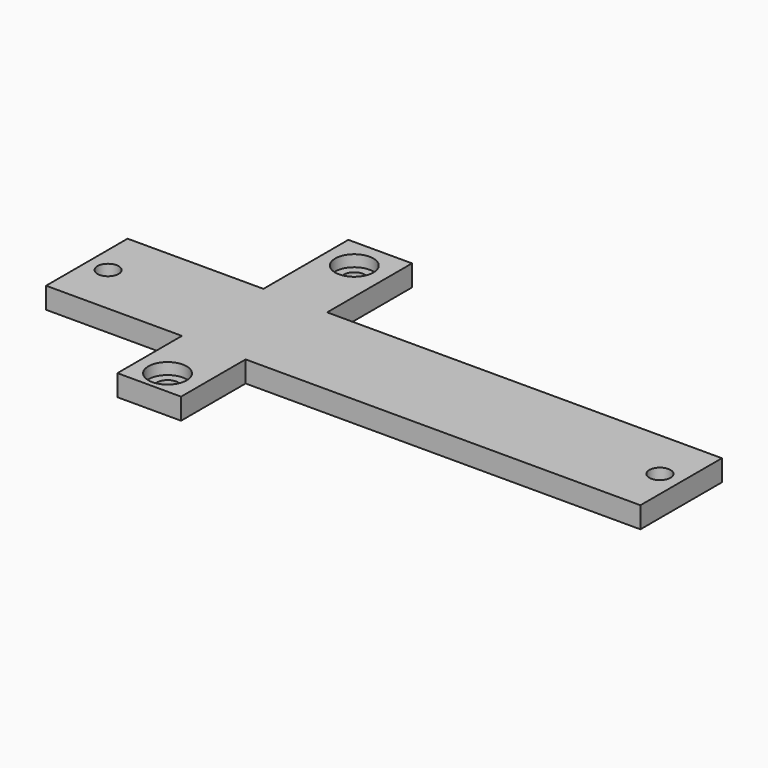
from build123d import *

# Parameters (mm, degrees)
CYLINDER063_R          = 4.5
CYLINDER063_DEPTH      = 10
CYLINDER064_R          = 4.5
CYLINDER064_DEPTH      = 10
CYLINDER058_R          = 2.5
CYLINDER058_DEPTH      = 10
CYLINDER059_R          = 2.5
CYLINDER059_DEPTH      = 10
CYLINDER060_R          = 2.5
CYLINDER060_DEPTH      = 10
CYLINDER061_R          = 2.5
CYLINDER061_DEPTH      = 10
CYLINDER057_R          = 2.5
CYLINDER057_DEPTH      = 10
CYLINDER062_R          = 2.5
CYLINDER062_DEPTH      = 10
BOX013_W               = 15
BOX013_H               = 5
BOX013_DEPTH           = 68
BOX012_W               = 140
BOX012_H               = 5
BOX012_DEPTH           = 24
CUT006_PLACEMENT_ANGLE = 270


with BuildPart() as cylinder063:
    # Cylinder063 → Cylinder063 (new body)
    with BuildSketch(Plane(origin=(-45.75, 0, -56.3), x_dir=(1, 0, 0), z_dir=(0, -1, 0))):
        Circle(CYLINDER063_R)
    extrude(amount=CYLINDER063_DEPTH)


with BuildPart() as obj1:
    # Cylinder064 → Cylinder064 (new body)
    with BuildSketch(Plane(origin=(-45.75, 0, -1.3), x_dir=(1, 0, 0), z_dir=(0, -1, 0))):
        Circle(CYLINDER064_R)
    extrude(amount=CYLINDER064_DEPTH)

    # Fusion023: union Cylinder063
    add(cylinder063.part)


with BuildPart() as obj1_1:
    # Fusion023 placement: moved
    add(obj1.part.moved(Location((0, 2.7, 0))))


with BuildPart() as cylinder058:
    # Cylinder058 → Cylinder058 (new body)
    with BuildSketch(Plane(origin=(115, 0, -31), x_dir=(1, 0, 0), z_dir=(0, -1, 0))):
        Circle(CYLINDER058_R)
    extrude(amount=CYLINDER058_DEPTH)


with BuildPart() as cylinder059:
    # Cylinder059 → Cylinder059 (new body)
    with BuildSketch(Plane(origin=(-80, 0, -31), x_dir=(1, 0, 0), z_dir=(0, -1, 0))):
        Circle(CYLINDER059_R)
    extrude(amount=CYLINDER059_DEPTH)


with BuildPart() as cylinder060:
    # Cylinder060 → Cylinder060 (new body)
    with BuildSketch(Plane(origin=(50, 0, -31), x_dir=(1, 0, 0), z_dir=(0, -1, 0))):
        Circle(CYLINDER060_R)
    extrude(amount=CYLINDER060_DEPTH)


with BuildPart() as cylinder061:
    # Cylinder061 → Cylinder061 (new body)
    with BuildSketch(Plane(origin=(-45.75, 0, -56.3), x_dir=(1, 0, 0), z_dir=(0, -1, 0))):
        Circle(CYLINDER061_R)
    extrude(amount=CYLINDER061_DEPTH)


with BuildPart() as cylinder057:
    # Cylinder057 → Cylinder057 (new body)
    with BuildSketch(Plane(origin=(-115, 0, -31), x_dir=(1, 0, 0), z_dir=(0, -1, 0))):
        Circle(CYLINDER057_R)
    extrude(amount=CYLINDER057_DEPTH)


with BuildPart() as fusion026:
    # Cylinder062 → Cylinder062 (new body)
    with BuildSketch(Plane(origin=(-45.75, 0, -1.3), x_dir=(1, 0, 0), z_dir=(0, -1, 0))):
        Circle(CYLINDER062_R)
    extrude(amount=CYLINDER062_DEPTH)

    # Fusion022: union Cylinder058, Cylinder059, Cylinder060, Cylinder061, Cylinder057
    add(cylinder058.part)
    add(cylinder059.part)
    add(cylinder060.part)
    add(cylinder061.part)
    add(cylinder057.part)


with BuildPart() as fusion026_1:
    # Fusion022 placement: moved
    add(fusion026.part.moved(Location((0, 5.1, 0))))

    # Fusion026: union obj1
    add(obj1_1.part)


with BuildPart() as cube011:
    # Box013 → Box013 (new body)
    with BuildSketch(Plane(origin=(-53, 0, -62), x_dir=(1, 0, 0), z_dir=(0, 0, 1))):
        with Locations((7.5, 2.5)):
            Rectangle(BOX013_W, BOX013_H)
    extrude(amount=BOX013_DEPTH)


with BuildPart() as powerbase001:
    # Box012 → Box012 (new body)
    with BuildSketch(Plane(origin=(-85, 0, -43), x_dir=(1, 0, 0), z_dir=(0, 0, 1))):
        with Locations((70, 2.5)):
            Rectangle(BOX012_W, BOX012_H)
    extrude(amount=BOX012_DEPTH)

    # Fusion021: union Cube011
    add(cube011.part)

    # Cut006: cut Fusion026
    add(fusion026_1.part, mode=Mode.SUBTRACT)


with BuildPart() as powerbase001_1:
    # Cut006 placement: moved
    add(powerbase001.part.rotate(Axis((0, 0, 0), (1, 0, 0)), CUT006_PLACEMENT_ANGLE))


solid = powerbase001_1.part
